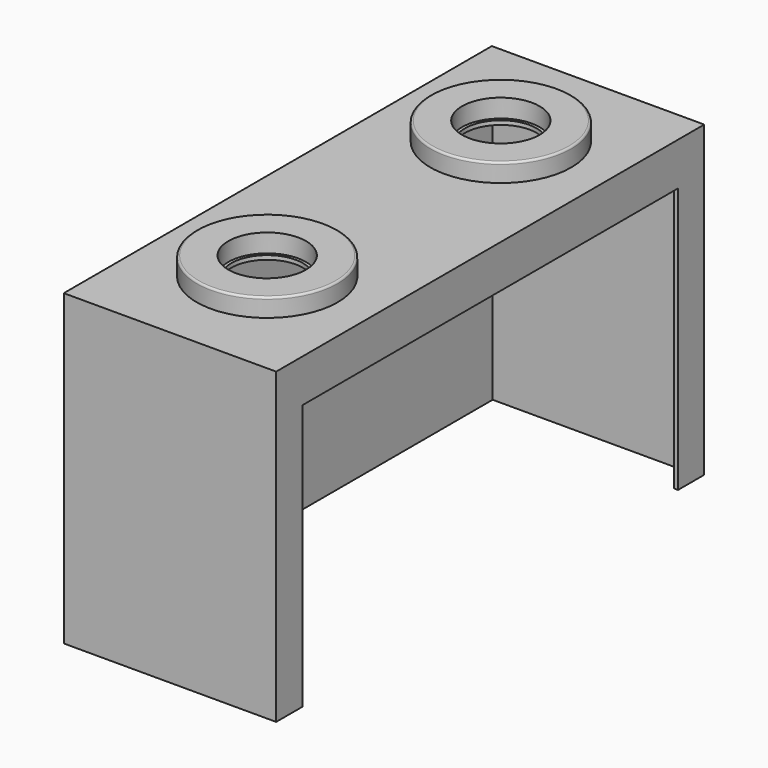
from build123d import *

# Parameters (mm, degrees)
F0_W     = 104
F0_H     = 151
F1_DEPTH = 262
F2_T     = -2
F3_W     = 230
F3_H     = 130
F4_DEPTH = 2
F5_R     = 17.5
F6_DEPTH = 25
F7_R     = 34.5
F7_R_2   = 19
F8_DEPTH = 9
F9_R     = 1


with BuildPart() as f1:
    # F0 (on Front) → F1 (new body)
    with BuildSketch(Plane.XZ):
        with Locations((52, 75.5)):
            Rectangle(F0_W, F0_H)
    extrude(amount=F1_DEPTH)

    # F2
    f2_openings = [f1.faces().sort_by_distance(p)[0] for p in [
        (52, -131, 0),
    ]]
    offset(amount=F2_T, openings=f2_openings)

    # F3 (on face) → F4 (cut, through all)
    with BuildSketch(Plane.YZ.offset(104)):
        with Locations((-131, 65)):
            Rectangle(F3_W, F3_H)
    extrude(amount=-F4_DEPTH, mode=Mode.SUBTRACT)

    # F5 (on face) → F6 (cut)
    with BuildSketch(Plane.XY.offset(151)):
        with Locations((52, -59.5)):
            Circle(F5_R)
        with Locations((52, -202.5)):
            Circle(F5_R)
    extrude(amount=-F6_DEPTH, mode=Mode.SUBTRACT)

    # F7 (on face) → F8 (join)
    with BuildSketch(Plane.XY.offset(151)):
        with Locations((52, -59.5)):
            Circle(F7_R)
        with Locations((52, -59.5)):
            Circle(F7_R_2, mode=Mode.SUBTRACT)
        with Locations((52, -202.5)):
            Circle(F7_R)
        with Locations((52, -202.5)):
            Circle(F7_R_2, mode=Mode.SUBTRACT)
    extrude(amount=F8_DEPTH)

    # F9
    f9_edges = [f1.edges().sort_by_distance(p)[0] for p in [
        (17.5, -59.5, 160),
        (17.5, -202.5, 160),
    ]]
    fillet(f9_edges, radius=F9_R)


solid = f1.part
